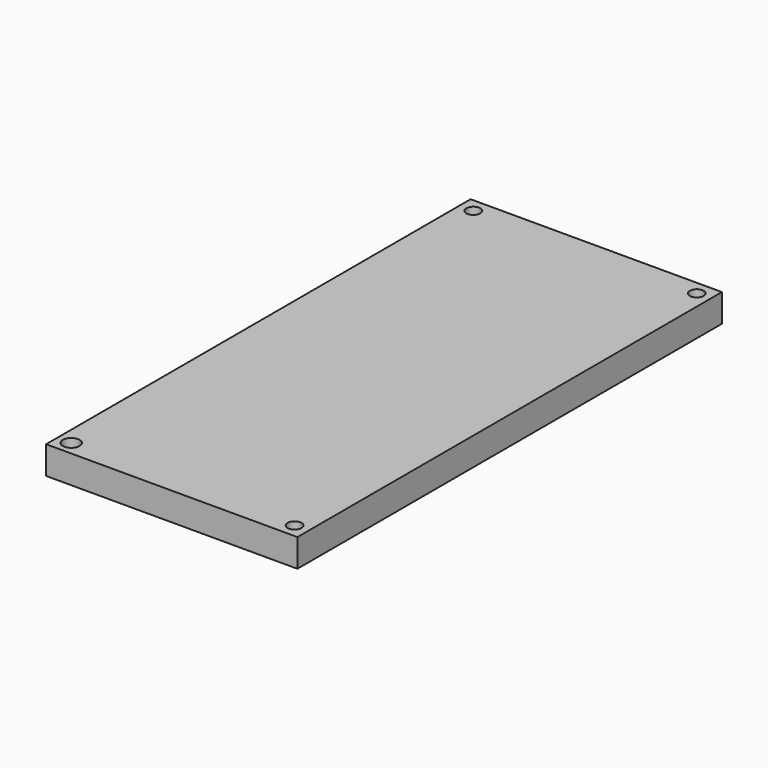
from build123d import *

# Parameters (mm, degrees)
F0_W     = 90
F0_H     = 190
F0_R     = 3
F0_R_2   = 2.5
F1_DEPTH = 10


with BuildPart() as f1:
    # F0 (on Top) → F1 (new body)
    with BuildSketch(Plane.XY):
        with Locations((5.095174, 86.170108)):
            Rectangle(F0_W, F0_H)
        with Locations((-34.904826, -3.829892)):
            Circle(F0_R, mode=Mode.SUBTRACT)
        with Locations((45.095174, -3.829892)):
            Circle(F0_R_2, mode=Mode.SUBTRACT)
        with Locations((-34.904826, 176.170108)):
            Circle(F0_R_2, mode=Mode.SUBTRACT)
        with Locations((45.095174, 176.170108)):
            Circle(F0_R_2, mode=Mode.SUBTRACT)
    extrude(amount=F1_DEPTH)


solid = f1.part
